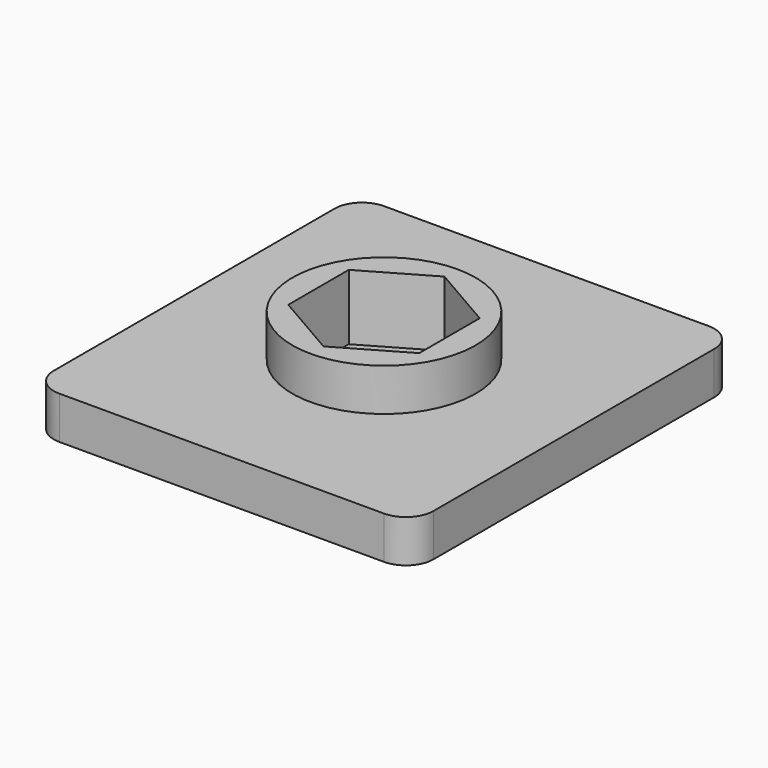
from build123d import *

# Parameters (mm, degrees)
SKETCH003_R      = 3
EXTRUDE003_DEPTH = 10
EXTRUDE002_DEPTH = 5
FACE001_R        = 7
EXTRUDE001_DEPTH = 3.25
FACE_W           = 31
FACE_H           = 29
EXTRUDE_DEPTH    = 3.25
FILLET_R         = 2.1


with BuildPart() as extrude003:
    # Sketch003 (on Face19 of Cut) → Extrude003 (new body)
    with BuildSketch(Plane.XY.offset(1.5)):
        with Locations((14.5, 15.5)):
            Circle(SKETCH003_R)
    extrude(amount=-EXTRUDE003_DEPTH)


with BuildPart() as extrude002:
    # Face002 → Extrude002 (new body)
    with BuildSketch(Plane(origin=(14.5, 15.5, 6.5), x_dir=(0, 1, 0), z_dir=(0, 0, 1))):
        Polygon((-2.886751, -5), (2.886751, -5), (5.773503, 0), (2.886751, 5), (-2.886751, 5), (-5.773503, 0), align=None)
    extrude(amount=-EXTRUDE002_DEPTH)


with BuildPart() as extrude001:
    # Face001 → Extrude001 (new body)
    with BuildSketch(Plane(origin=(14.5, 15.5, 3.25), x_dir=(0, 1, 0), z_dir=(0, 0, 1))):
        Circle(FACE001_R)
    extrude(amount=EXTRUDE001_DEPTH)


with BuildPart() as cut001:
    # Face → Extrude (new body)
    with BuildSketch(Plane(origin=(14.5, 15.5, 0), x_dir=(0, 1, 0), z_dir=(0, 0, 1))):
        Rectangle(FACE_W, FACE_H)
    extrude(amount=EXTRUDE_DEPTH)

    # Fillet
    fillet_edges = [cut001.edges().sort_by_distance(p)[0] for p in [
        (0, 0, 1.625),
        (29, 0, 1.625),
        (29, 31, 1.625),
        (0, 31, 1.625),
    ]]
    fillet(fillet_edges, radius=FILLET_R)

    # Fusion: union Extrude001
    add(extrude001.part)

    # Cut: cut Extrude002
    add(extrude002.part, mode=Mode.SUBTRACT)

    # Cut001: cut Extrude003
    add(extrude003.part, mode=Mode.SUBTRACT)


solid = cut001.part
